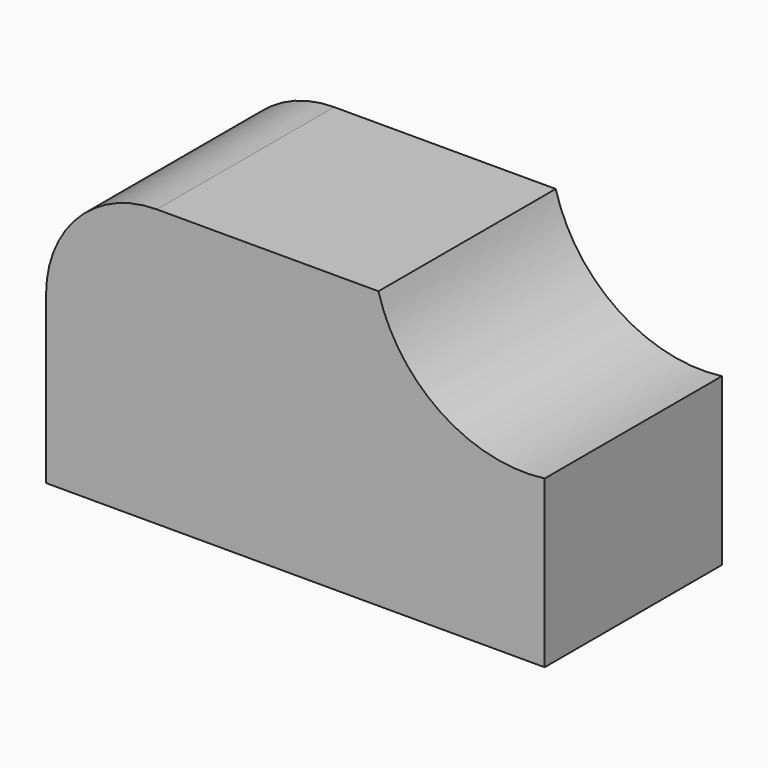
from build123d import *

# Parameters (mm, degrees)
F0_W     = 57.15
F0_H     = 31.75
F1_DEPTH = 25.4
F3_DEPTH = 25.4
F5_DEPTH = 25.4


with BuildPart() as f1:
    # F0 (on Front) → F1 (new body)
    with BuildSketch(Plane.XZ):
        with Locations((-7.4283964932, 25.9043908785)):
            Rectangle(F0_W, F0_H)
    extrude(amount=F1_DEPTH)

    # F2 (on face) → F3 (cut)
    with BuildSketch(Plane.XZ.offset(25.4)):
        with BuildLine():
            ThreePointArc((2.0966035068, 41.7793908785), (9.2454078798, 31.865097438), (21.1466035068, 29.0793908785))
            Line((21.1466035068, 29.0793908785), (21.1466035068, 41.7793908785))
            Line((21.1466035068, 41.7793908785), (2.0966035068, 41.7793908785))
        make_face()
    extrude(amount=-F3_DEPTH, mode=Mode.SUBTRACT)

    # F4 (on face) → F5 (cut)
    with BuildSketch(Plane.XZ.offset(25.4)):
        with BuildLine():
            Line((-36.0033964932, 41.7793908785), (-36.0033964932, 35.4293908785))
            Line((-36.0033964932, 35.4293908785), (-36.0033964932, 29.0793908785))
            ThreePointArc((-36.0033964932, 29.0793908785), (-32.2836526143, 38.0596469995), (-23.3033964932, 41.7793908785))
            Line((-23.3033964932, 41.7793908785), (-36.0033964932, 41.7793908785))
        make_face()
    extrude(amount=-F5_DEPTH, mode=Mode.SUBTRACT)


solid = f1.part
